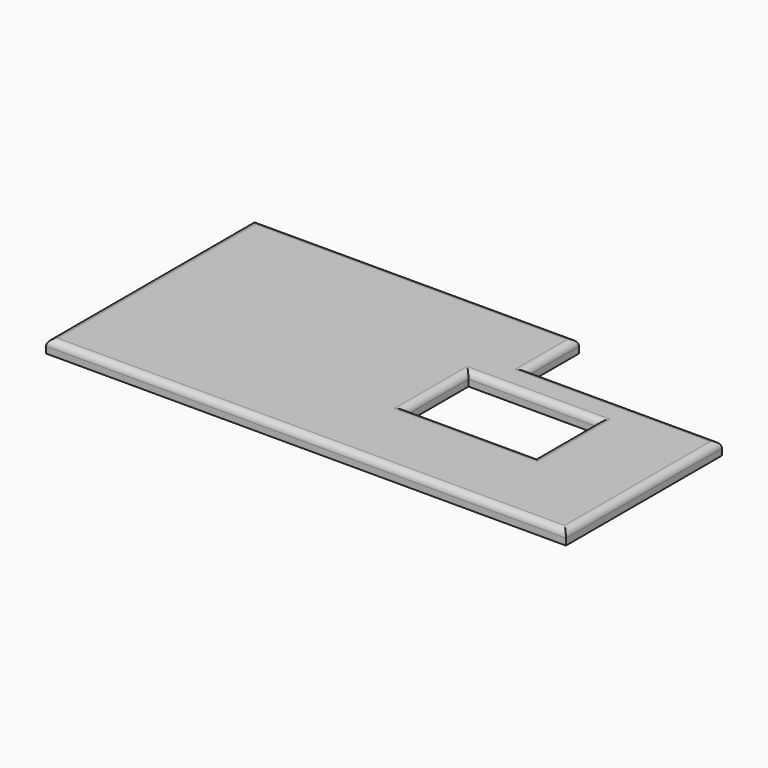
from build123d import *

# Parameters (mm, degrees)
F1_DEPTH = 2
F2_W     = 20
F2_H     = 12
F3_DEPTH = 5
F4_R     = 1


with BuildPart() as f1:
    # F0 (on Top) → F1 (new body)
    with BuildSketch(Plane.XY):
        Polygon((-40, 0), (0, 0), (40, 0), (40, 30), (10, 30), (10, 40), (-40, 40), align=None)
    extrude(amount=F1_DEPTH)

    # F2 (on face) → F3 (cut)
    with BuildSketch(Plane.XY.offset(2)):
        with Locations((15, 19)):
            Rectangle(F2_W, F2_H)
    extrude(amount=-F3_DEPTH, mode=Mode.SUBTRACT)

    # F4
    f4_edges = [f1.edges().sort_by_distance(p)[0] for p in [
        (-15, 40, 2),
        (-40, 20, 2),
        (0, 0, 2),
        (40, 15, 2),
        (25, 30, 2),
        (10, 35, 2),
        (15, 25, 2),
        (5, 19, 2),
        (15, 13, 2),
        (25, 19, 2),
    ]]
    fillet(f4_edges, radius=F4_R)


solid = f1.part
